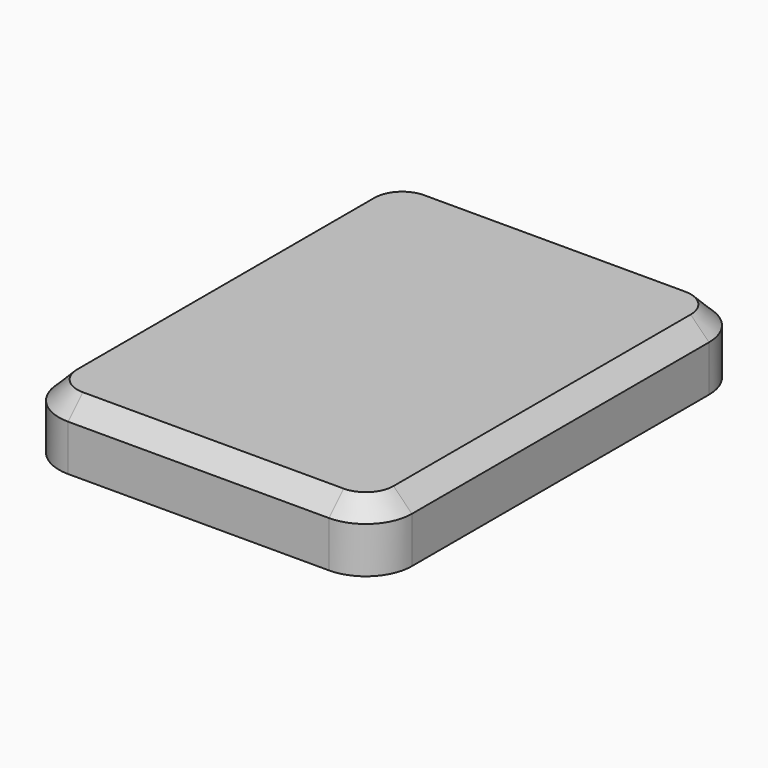
from build123d import *

# Parameters (mm, degrees)
F0_W     = 38.3
F0_H     = 50.3
F0_W_2   = 28.3
F0_H_2   = 40.3
F2_DEPTH = 4
F3_DEPTH = 3
F4_R     = 5
F5_SIZE  = 2


with BuildPart() as f2:
    # F0 (on Top) → F2 (new body)
    with BuildSketch(Plane.XY):
        Rectangle(F0_W, F0_H)
        Rectangle(F0_W_2, F0_H_2, mode=Mode.SUBTRACT)
    extrude(amount=-F2_DEPTH)

    # F0 (on Top) → F3 (join)
    with BuildSketch(Plane.XY):
        Rectangle(F0_W, F0_H)
        Rectangle(F0_W_2, F0_H_2, mode=Mode.SUBTRACT)
        Rectangle(F0_W_2, F0_H_2)
    extrude(amount=F3_DEPTH)

    # F4
    f4_edges = [f2.edges().sort_by_distance(p)[0] for p in [
        (-19.15, -25.15, -0.5),
        (-19.15, 25.15, -0.5),
        (19.15, 25.15, -0.5),
        (19.15, -25.15, -0.5),
    ]]
    fillet(f4_edges, radius=F4_R)

    # F5
    f5_edges = [f2.edges().sort_by_distance(p)[0] for p in [
        (19.15, 0, 3),
        (17.685534, -23.685534, 3),
        (17.685534, 23.685534, 3),
        (0, -25.15, 3),
        (0, 25.15, 3),
        (-17.685534, -23.685534, 3),
        (-17.685534, 23.685534, 3),
        (-19.15, 0, 3),
    ]]
    chamfer(f5_edges, length=F5_SIZE)


solid = f2.part
